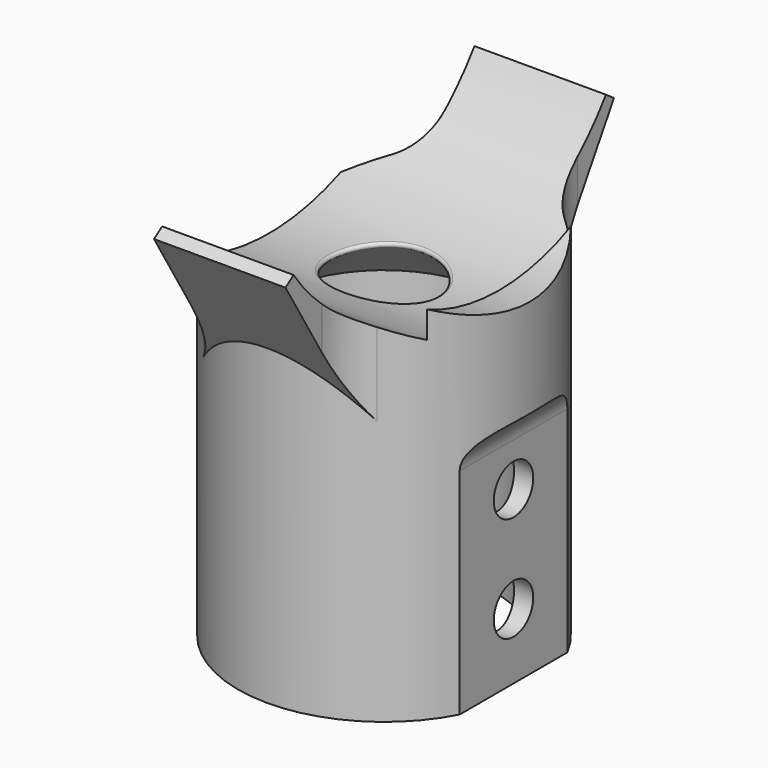
from build123d import *

# Parameters (mm, degrees)
F2_R           = 2.38125
F4_DEPTH       = 25.4
F4_DEPTH_BACK  = 25.4
F5_R           = 2.38125
F6_DEPTH       = 6.35
F8_DEPTH       = 6.35
F8_DEPTH_BACK  = 6.35
F9_R           = 23.0251
F10_DEPTH      = 25.4
F10_DEPTH_BACK = 11.1125
F11_R          = 5.08
F12_R          = 20.6375
F13_DEPTH      = 25.4
F15_R          = 26.67
F16_DEPTH      = 25.4
F17_R          = 0.254


with BuildPart() as f1:
    # F0 (on Front) → F1 (revolve)
    with BuildSketch(Plane.XZ):
        Polygon((-10.922, -9.1646461717), (0, 0), (0, 9.525), (-14.097, 9.525), (-14.097, -34.5646461717), (-10.922, -34.5646461717), align=None)
    revolve(axis=Axis((0, 0, -35.6408189919), (0, 0, -1)))

    # F2
    f2_edges = [f1.edges().sort_by_distance(p)[0] for p in [
        (14.097, 0, 9.525),
    ]]
    fillet(f2_edges, radius=F2_R)

    # F3 (on Front) → F4 (cut, two sides)
    with BuildSketch(Plane.XZ) as f4_sk:
        with BuildLine():
            ThreePointArc((15.6845, -10.668), (13.4394359697, -11.5979359697), (12.5095, -13.843))
            Line((12.5095, -13.843), (12.5095, -38.608))
            Line((12.5095, -38.608), (18.8595, -38.608))
            Line((18.8595, -38.608), (18.8595, -10.668))
            Line((18.8595, -10.668), (15.6845, -10.668))
        make_face()
    extrude(amount=F4_DEPTH, mode=Mode.SUBTRACT)
    extrude(f4_sk.sketch, amount=-F4_DEPTH_BACK, mode=Mode.SUBTRACT)

    # F5 (on face) → F6 (cut)
    with BuildSketch(Plane.YZ.offset(12.5095)):
        with Locations((0, -18.0546461717)):
            Circle(F5_R)
        with Locations((0, -28.2146461717)):
            Circle(F5_R)
    extrude(amount=-F6_DEPTH, mode=Mode.SUBTRACT)

    # F7 (on Right) → F8 (join, two sides)
    with BuildSketch(Plane.YZ) as f8_sk:
        Polygon((-19.8335813084, 5.1623768582), (-11.1205259429, -9.3312292172), (0, 0), (11.1205259429, -9.3312292172), (19.8335813084, 5.1623768582), (15.6609765601, 8.0840661569), (-15.6609765601, 8.0840661569), align=None)
    extrude(amount=F8_DEPTH)
    extrude(f8_sk.sketch, amount=-F8_DEPTH_BACK)

    # F9 (on Right) → F10 (cut, two sides)
    with BuildSketch(Plane.YZ) as f10_sk:
        with Locations((0, 19.05)):
            Circle(F9_R)
    extrude(amount=-F10_DEPTH, mode=Mode.SUBTRACT)
    extrude(f10_sk.sketch, amount=F10_DEPTH_BACK, mode=Mode.SUBTRACT)

    # F11
    f11_edges = [f1.edges().sort_by_distance(p)[0] for p in [
        (6.35, -12.585822, -3.562342),
        (6.35, 12.585822, -3.562342),
        (-6.35, -12.585822, -3.562342),
        (-6.35, 12.585822, -3.562342),
    ]]
    fillet(f11_edges, radius=F11_R)

    # F12 (on Right) → F13 (cut)
    with BuildSketch(Plane.YZ):
        with Locations((0, 19.05)):
            Circle(F12_R)
    extrude(amount=F13_DEPTH, mode=Mode.SUBTRACT)

    # F15 (on offset) → F16 (cut)
    with BuildSketch(Plane.YZ.offset(-11.1125)):
        with Locations((0, 19.05)):
            Circle(F15_R)
    extrude(amount=-F16_DEPTH, mode=Mode.SUBTRACT)

    # F17
    f17_edges = [f1.edges().sort_by_distance(p)[0] for p in [
        (4.73734, 0, -3.9751),
    ]]
    fillet(f17_edges, radius=F17_R)


with BuildPart() as f18_1:
    # F18: copy of F1
    add(f1.part)


solid = Compound([f1.part, f18_1.part])
